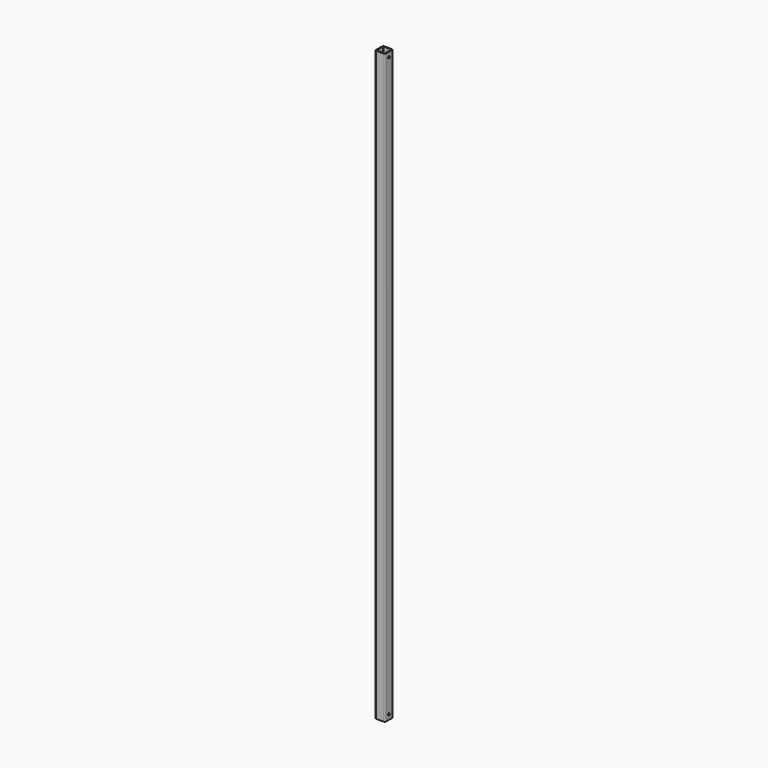
from build123d import *

# Parameters (mm, degrees)
F1_DEPTH = 2380
F2_R     = 4.5
F3_DEPTH = 40.001


with BuildPart() as f1:
    # F0 (on Top) → F1 (new body)
    with BuildSketch(Plane.XY):
        with BuildLine():
            Line((-15.5, -20), (15.5, -20))
            ThreePointArc((15.5, -20), (18.681981, -18.681981), (20, -15.5))
            Line((20, -15.5), (20, 15.5))
            ThreePointArc((20, 15.5), (18.681981, 18.681981), (15.5, 20))
            Line((15.5, 20), (-15.5, 20))
            ThreePointArc((-15.5, 20), (-18.681981, 18.681981), (-20, 15.5))
            Line((-20, 15.5), (-20, -15.5))
            ThreePointArc((-20, -15.5), (-18.681981, -18.681981), (-15.5, -20))
        make_face()
        with BuildLine():
            ThreePointArc((15.5, 17), (16.56066, 16.56066), (17, 15.5))
            Line((17, 15.5), (17, -15.5))
            ThreePointArc((17, -15.5), (16.56066, -16.56066), (15.5, -17))
            Line((15.5, -17), (-15.5, -17))
            ThreePointArc((-15.5, -17), (-16.56066, -16.56066), (-17, -15.5))
            Line((-17, -15.5), (-17, 15.5))
            ThreePointArc((-17, 15.5), (-16.56066, 16.56066), (-15.5, 17))
            Line((-15.5, 17), (15.5, 17))
        make_face(mode=Mode.SUBTRACT)
    extrude(amount=F1_DEPTH)

    # F2 (on face) → F3 (cut, through all)
    with BuildSketch(Plane.YZ.offset(20)):
        with Locations((0, 2360)):
            Circle(F2_R)
        with Locations((0, 20)):
            Circle(F2_R)
    extrude(amount=-F3_DEPTH, mode=Mode.SUBTRACT)


solid = f1.part
